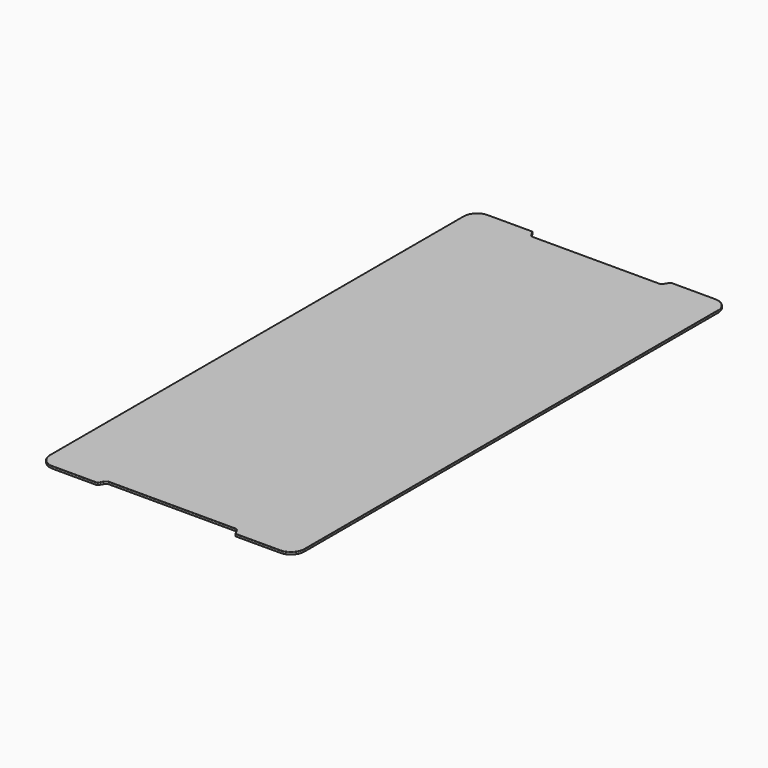
from build123d import *

# Parameters (mm, degrees)
F1_DEPTH = 0.7
F2_R     = 1
F3_R     = 0.4
F4_R     = 0.1


with BuildPart() as f1:
    # F0 (on Top) → F1 (new body)
    with BuildSketch(Plane.XY):
        with BuildLine():
            Line((33, 78.95), (20.028868, 78.95))
            Line((20.028868, 78.95), (18.874167, 76.95))
            Line((18.874167, 76.95), (-18.874167, 76.95))
            Line((-18.874167, 76.95), (-20.028868, 78.95))
            Line((-20.028868, 78.95), (-33, 78.95))
            ThreePointArc((-33, 78.95), (-35.793072, 77.793072), (-36.95, 75))
            Line((-36.95, 75), (-36.95, 0))
            Line((-36.95, 0), (-36.95, -75))
            ThreePointArc((-36.95, -75), (-35.793072, -77.793072), (-33, -78.95))
            Line((-33, -78.95), (-20.028868, -78.95))
            Line((-20.028868, -78.95), (-18.874167, -76.95))
            Line((-18.874167, -76.95), (18.874167, -76.95))
            Line((18.874167, -76.95), (20.028868, -78.95))
            Line((20.028868, -78.95), (33, -78.95))
            ThreePointArc((33, -78.95), (35.793072, -77.793072), (36.95, -75))
            Line((36.95, -75), (36.95, 0))
            Line((36.95, 0), (36.95, 75))
            ThreePointArc((36.95, 75), (35.793072, 77.793072), (33, 78.95))
        make_face()
    extrude(amount=-F1_DEPTH)

    # F2
    f2_edges = [f1.edges().sort_by_distance(p)[0] for p in [
        (-18.874167, 76.95, -0.35),
        (18.874167, 76.95, -0.35),
        (18.874167, -76.95, -0.35),
        (-18.874167, -76.95, -0.35),
    ]]
    fillet(f2_edges, radius=F2_R)

    # F3
    f3_edges = [f1.edges().sort_by_distance(p)[0] for p in [
        (-20.028868, -78.95, -0.35),
        (20.028868, -78.95, -0.35),
        (20.028868, 78.95, -0.35),
        (-20.028868, 78.95, -0.35),
    ]]
    fillet(f3_edges, radius=F3_R)

    # F4
    f4_edges = [f1.edges().sort_by_distance(p)[0] for p in [
        (0, 76.95, 0),
        (0, 76.95, -0.7),
    ]]
    fillet(f4_edges, radius=F4_R)


solid = f1.part
